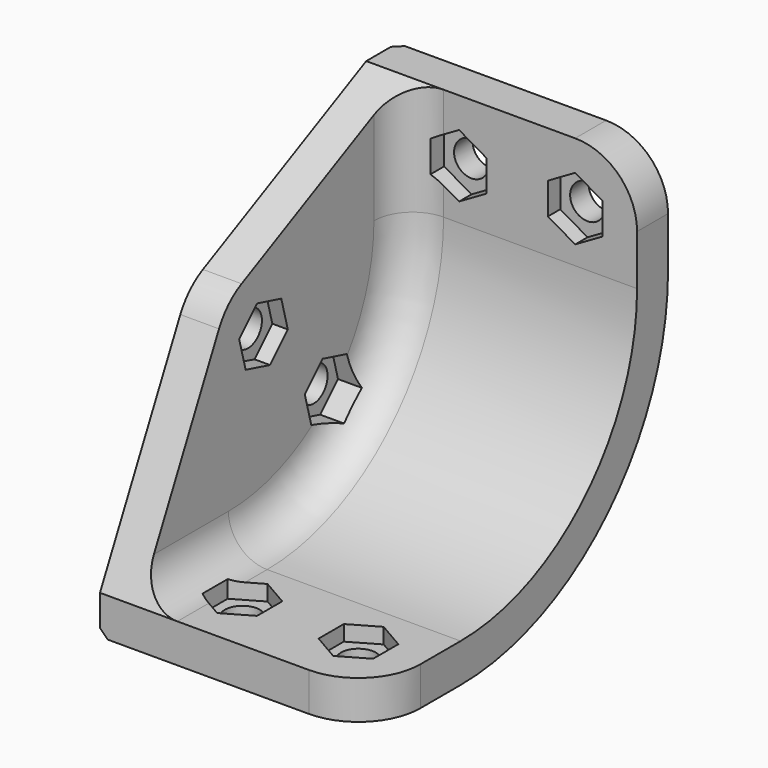
from build123d import *

# Parameters (mm, degrees)
PAD_DEPTH       = 5
PAD001_DEPTH    = 5
PAD002_DEPTH    = 5
FILLET003_R     = 28.5
POCKET003_DEPTH = 35.001
FILLET_R        = 5
SKETCH003_R     = 2.25
HOLE_DEPTH      = 48.001
SKETCH004_R     = 2.25
HOLE001_DEPTH   = 35.001
SKETCH005_R     = 2.25
HOLE002_DEPTH   = 48.001
POCKET_DEPTH    = 2
POCKET001_DEPTH = 2
POCKET002_DEPTH = 2
CHAMFER_SIZE    = 1


with BuildPart() as part:
    # Sketch → Pad (new body)
    with BuildSketch(Plane.YZ):
        with BuildLine():
            Line((0, 48), (-5, 48))
            Line((-31.37532, 35.02115), (-5, 48))
            ThreePointArc((-31.37532, 35.02115), (-33.5, 33.5), (-35.02115, 31.37532))
            Line((-48, 5), (-35.02115, 31.37532))
            Line((-48, 5), (-48, 0))
            Line((-48, 0), (0, 0))
            Line((0, 0), (0, 48))
        make_face()
    extrude(amount=PAD_DEPTH)

    # Sketch001 → Pad001 (join)
    with BuildSketch(Plane.XY):
        with BuildLine():
            Line((0, 0), (0, -48))
            Line((0, -48), (27, -48))
            ThreePointArc((27, -48), (32.656854, -45.656854), (35, -40))
            Line((35, -40), (35, 0))
            Line((35, 0), (0, 0))
        make_face()
    extrude(amount=PAD001_DEPTH)

    # Sketch002 (on DatumPlane) → Pad002 (join)
    with BuildSketch(Plane.XZ):
        with BuildLine():
            Line((0, 0), (0, 48))
            Line((0, 48), (27, 48))
            ThreePointArc((35, 40), (32.656854, 45.656854), (27, 48))
            Line((35, 40), (35, 0))
            Line((35, 0), (0, 0))
        make_face()
    extrude(amount=PAD002_DEPTH)

    # Fillet003
    fillet003_edges = [part.edges().sort_by_distance(p)[0] for p in [
        (20, -5, 5),
    ]]
    fillet(fillet003_edges, radius=FILLET003_R)

    # Sketch009 → Pocket003 (cut, through all)
    with BuildSketch(Plane.YZ):
        with BuildLine():
            ThreePointArc((-33.5, 0), (-9.811923, 9.811923), (0, 33.5))
            Line((0, 33.5), (0, 0))
            Line((-33.5, 0), (0, 0))
        make_face()
    extrude(amount=POCKET003_DEPTH, mode=Mode.SUBTRACT)

    # Fillet
    fillet_edges = [part.edges().sort_by_distance(p)[0] for p in [
        (5, -13.347457, 13.347457),
    ]]
    fillet(fillet_edges, radius=FILLET_R)

    # Sketch003 → Hole (cut, through all)
    with BuildSketch(Plane.XY):
        with Locations((12, -40)):
            Circle(SKETCH003_R)
        with Locations((27, -40)):
            Circle(SKETCH003_R)
    extrude(amount=HOLE_DEPTH, mode=Mode.SUBTRACT)

    # Sketch004 → Hole001 (cut, through all)
    with BuildSketch(Plane.YZ):
        with Locations((-17.236544, 17.236544)):
            Circle(SKETCH004_R)
        with Locations((-27.843146, 27.843146)):
            Circle(SKETCH004_R)
    extrude(amount=HOLE001_DEPTH, mode=Mode.SUBTRACT)

    # Sketch005 (on DatumPlane) → Hole002 (cut, through all)
    with BuildSketch(Plane.XZ):
        with Locations((12, 40)):
            Circle(SKETCH005_R)
        with Locations((27, 40)):
            Circle(SKETCH005_R)
    extrude(amount=HOLE002_DEPTH, mode=Mode.SUBTRACT)

    # Sketch006 (on DatumPlane) → Pocket (cut, symmetric)
    with BuildSketch(Plane.XY.offset(5)):
        Polygon((12, -44.070319), (15.525, -42.03516), (15.525, -37.96484), (12, -35.929681), (8.475, -37.96484), (8.475, -42.03516), align=None)
        Polygon((30.525, -42.03516), (30.525, -37.96484), (27, -35.929681), (23.475, -37.96484), (23.475, -42.03516), (27, -44.070319), align=None)
    extrude(amount=POCKET_DEPTH, both=True, mode=Mode.SUBTRACT)

    # Sketch007 (on DatumPlane) → Pocket001 (cut, symmetric)
    with BuildSketch(Plane.YZ.offset(5)):
        Polygon((-31.774772, 28.896622), (-30.721296, 24.964995), (-26.78967, 23.911519), (-23.911519, 26.78967), (-24.964995, 30.721296), (-28.896622, 31.774772), align=None)
        Polygon((-21.168171, 18.29002), (-20.114694, 14.358394), (-16.183068, 13.304917), (-13.304917, 16.183068), (-14.358394, 20.114694), (-18.29002, 21.168171), align=None)
    extrude(amount=POCKET001_DEPTH, both=True, mode=Mode.SUBTRACT)

    # Sketch008 (on DatumPlane) → Pocket002 (cut, symmetric)
    with BuildSketch(Plane.XZ.offset(5)):
        Polygon((12, 35.929681), (15.525, 37.96484), (15.525, 42.03516), (12, 44.070319), (8.475, 42.03516), (8.475, 37.96484), align=None)
        Polygon((27, 35.929681), (30.525, 37.96484), (30.525, 42.03516), (27, 44.070319), (23.475, 42.03516), (23.475, 37.96484), align=None)
    extrude(amount=POCKET002_DEPTH, both=True, mode=Mode.SUBTRACT)

    # Chamfer
    chamfer_edges = [part.edges().sort_by_distance(p)[0] for p in [
        (0, -9.811923, 9.811923),
    ]]
    chamfer(chamfer_edges, length=CHAMFER_SIZE)


solid = part.part
